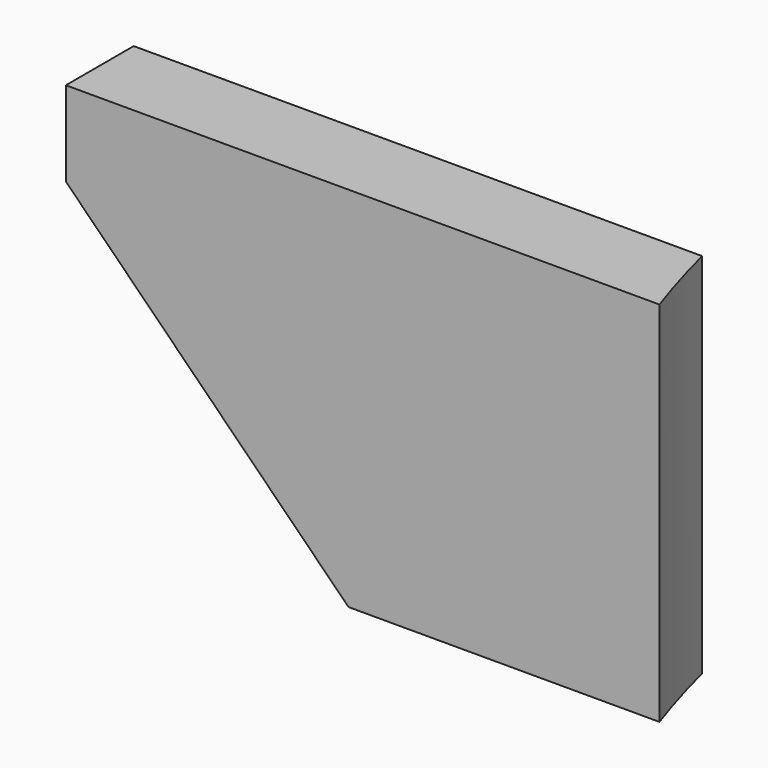
from build123d import *

# Parameters (mm, degrees)
CYLINDER906_R     = 74
CYLINDER906_DEPTH = 32
BOX432_W          = 50
BOX432_H          = 6
BOX432_DEPTH      = 26
CHAMFER003_SIZE   = 20


with BuildPart() as obj1:
    # Cylinder906 → Cylinder906 (new body)
    with BuildSketch(Plane.XY.offset(50)):
        Circle(CYLINDER906_R)
    extrude(amount=CYLINDER906_DEPTH)


with BuildPart() as chamfer003:
    # Box432 → Box432 (new body)
    with BuildSketch(Plane(origin=(-112, -24, 56), x_dir=(1, 0, 0), z_dir=(0, 0, 1))):
        with Locations((25, 3)):
            Rectangle(BOX432_W, BOX432_H)
    extrude(amount=BOX432_DEPTH)

    # Cut406: cut obj1
    add(obj1.part, mode=Mode.SUBTRACT)

    # Chamfer003
    chamfer003_edges = [chamfer003.edges().sort_by_distance(p)[0] for p in [
        (-112, -21, 56),
    ]]
    chamfer(chamfer003_edges, length=CHAMFER003_SIZE)


solid = chamfer003.part
